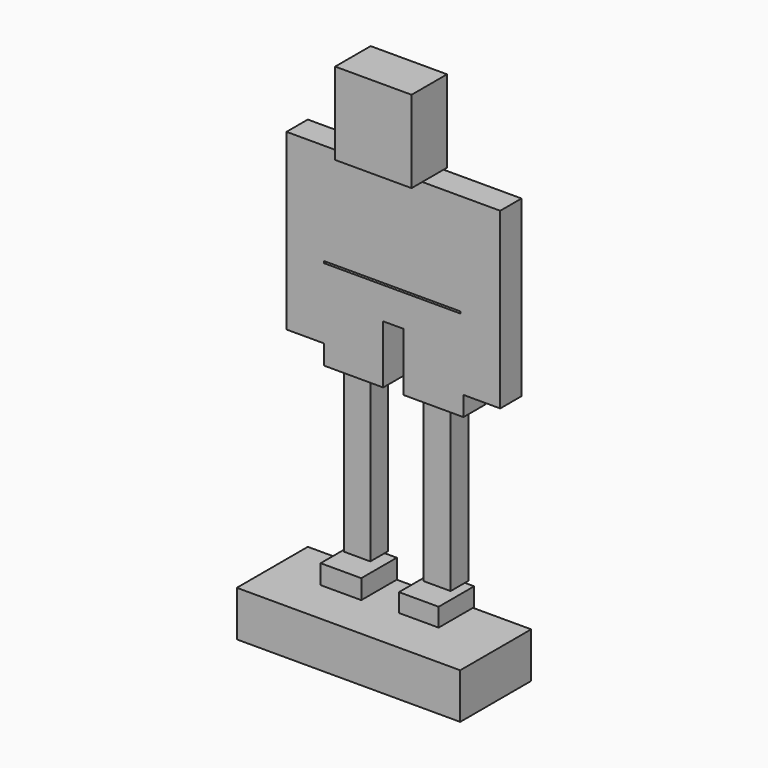
from build123d import *

# Parameters (mm, degrees)
F0_W      = 11.6277486086
F0_H      = 5.5370256305
F1_DEPTH  = 12.7
F0_W_2    = 11.3508980721
F0_H_2    = 5.2601732314
F2_W      = 63.9526322484
F2_H      = 13.0120068789
F3_DEPTH  = 25.4
F4_W      = 63.6757835746
F4_H      = 12.1814534068
F5_DEPTH  = 25.4
F6_W      = 7.4749849737
F6_H      = 45.8880886436
F7_DEPTH  = 6.35
F6_W_2    = 7.7518355101
F8_W      = 16.88792184
F8_H      = 16.6802853346
F8_W_2    = 17.1647742391
F9_DEPTH  = 7.62
F10_W     = 39.0360169113
F10_H     = 29.0693752468
F11_DEPTH = 7.62
F12_W     = 21.8712501228
F12_H     = 23.5323570669
F13_DEPTH = 12.7
F14_W     = 2.4916604161
F14_H     = 3.0453652143
F14_W_2   = 2.7685128152
F14_H_2   = 2.4916604161
F14_W_3   = 7.1981325746
F14_H_3   = 2.7685090899
F15_DEPTH = 6.35


with BuildPart() as f1:
    # F0 (on Front) → F1 (new body)
    with BuildSketch(Plane.XZ):
        with Locations((-55.3010292351, -49.4871549308)):
            Rectangle(F0_W, F0_H)
    extrude(amount=F1_DEPTH)

    # F2 (on Front) → F3 (join)
    with BuildSketch(Plane.XZ):
        with Locations((-42.9811514914, -58.7616711855)):
            Rectangle(F2_W, F2_H)
    extrude(amount=F3_DEPTH)

    # F4 (on Front) → F5 (join)
    with BuildSketch(Plane.XZ):
        with Locations((-42.8427271545, -58.6232431233)):
            Rectangle(F4_W, F4_H)
    extrude(amount=F5_DEPTH)


with BuildPart() as f1b:
    # F0 (on Front) → F1, piece 2 (new body)
    with BuildSketch(Plane.XZ):
        with Locations((-33.0145070329, -49.3487287313)):
            Rectangle(F0_W_2, F0_H_2)
    extrude(amount=F1_DEPTH)


with BuildPart() as f7:
    # F6 (on Front) → F7 (new body)
    with BuildSketch(Plane.XZ):
        with Locations((-55.7163078338, -22.9440443218)):
            Rectangle(F6_W, F6_H)
    extrude(amount=F7_DEPTH)


with BuildPart() as f7b:
    # F6 (on Front) → F7, piece 2 (new body)
    with BuildSketch(Plane.XZ):
        with Locations((-32.876082696, -22.9440443218)):
            Rectangle(F6_W_2, F6_H)
    extrude(amount=F7_DEPTH)


with BuildPart() as f9:
    # F8 (on Front) → F9 (new body)
    with BuildSketch(Plane.XZ):
        with Locations((-55.7163041085, 8.3401426673)):
            Rectangle(F8_W, F8_H)
        Polygon((-64.1602650285, 25.8163753897), (-64.1602650285, 16.6802853346), (-47.2723431885, 16.6802853346), (-41.4584688842, 16.6802853346), (-24.2936946452, 16.6802853346), (-24.2936946452, 25.8163753897), align=None)
        with Locations((-32.8760817647, 8.3401426673)):
            Rectangle(F8_W_2, F8_H)
    extrude(amount=F9_DEPTH)

    # F10 (on Front) → F11 (join)
    with BuildSketch(Plane.XZ):
        with Locations((-44.6422565728, 40.9047659487)):
            Rectangle(F10_W, F10_H)
        Polygon((-64.1602650285, 5.6062368676), (-64.1602650285, 26.3700783253), (-64.1602650285, 55.439453572), (-74.9574676156, 55.439453572), (-74.9574676156, 5.6062368676), align=None)
        Polygon((-25.1242481172, 55.439453572), (-25.1242481172, 26.3700783253), (-25.1242481172, 5.6062368676), (-13.7733472511, 5.6062368676), (-13.7733472511, 55.439453572), align=None)
    extrude(amount=F11_DEPTH)


with BuildPart() as f13:
    # F12 (on Front) → F13 (new body)
    with BuildSketch(Plane.XZ):
        with Locations((-46.0265148431, 68.0361855775)):
            Rectangle(F12_W, F12_H)
    extrude(amount=F13_DEPTH)

    # F14 (on Front) → F15 (join)
    with BuildSketch(Plane.XZ):
        with Locations((-51.84039101, 72.4658071995)):
            Rectangle(F14_W, F14_H)
        with Locations((-44.780684635, 72.1889548004)):
            Rectangle(F14_W_2, F14_H_2)
        with Locations((-46.9954945147, 63.4681396186)):
            Rectangle(F14_W_3, F14_H_3)
    extrude(amount=F15_DEPTH)


solid = Compound([f1.part, f1b.part, f7.part, f7b.part, f9.part, f13.part])
